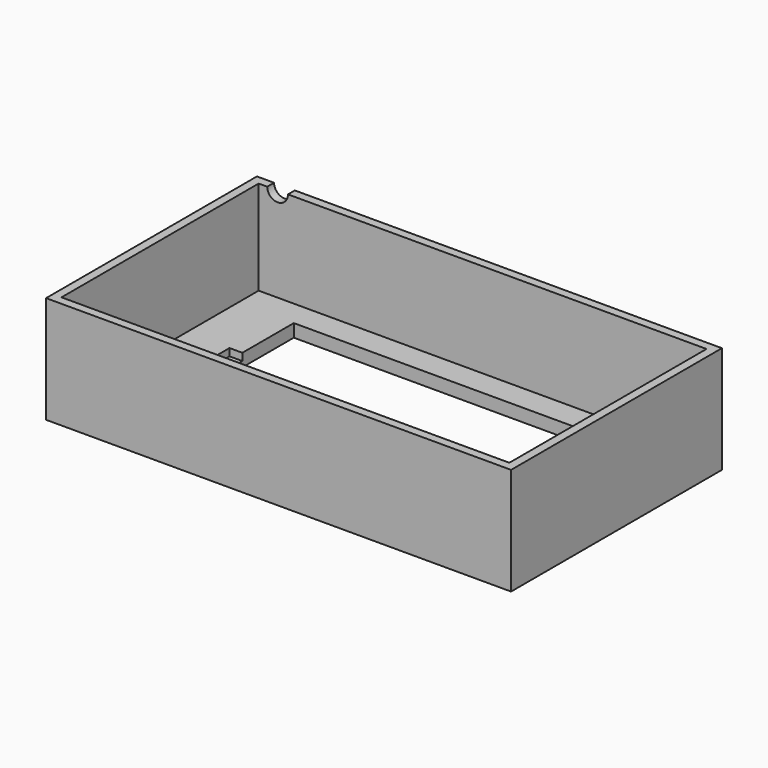
from build123d import *

# Parameters (mm, degrees)
F0_W     = 108.5
F0_H     = 61.5
F0_W_2   = 85.5
F0_H_2   = 45.5
F1_DEPTH = 3
F2_W     = 3
F2_H     = 15
F3_DEPTH = 1.7
F4_W     = 108.5
F4_H     = 61.5
F4_W_2   = 104.5
F4_H_2   = 57.5
F5_DEPTH = 22
F7_DEPTH = 2


with BuildPart() as f1:
    # F0 (on Top) → F1 (new body)
    with BuildSketch(Plane.XY):
        with Locations((39.25, 22.75)):
            Rectangle(F0_W, F0_H)
        with Locations((42.75, 22.75)):
            Rectangle(F0_W_2, F0_H_2, mode=Mode.SUBTRACT)
    extrude(amount=F1_DEPTH)

    # F2 (on face) → F3 (cut, through all)
    with BuildSketch(Plane.XY.offset(3)):
        with Locations((-1.5, 23)):
            Rectangle(F2_W, F2_H)
        with Locations((87, 23)):
            Rectangle(F2_W, F2_H)
    extrude(amount=-F3_DEPTH, mode=Mode.SUBTRACT)

    # F4 (on face) → F5 (join)
    with BuildSketch(Plane.XY.offset(3)):
        with Locations((39.25, 22.75)):
            Rectangle(F4_W, F4_H)
        with Locations((39.25, 22.75)):
            Rectangle(F4_W_2, F4_H_2, mode=Mode.SUBTRACT)
    extrude(amount=F5_DEPTH)

    # F6 (on face) → F7 (cut, through all)
    with BuildSketch(Plane(origin=(0, 53.5, 0), x_dir=(-1, 0, 0), z_dir=(0, 1, 0))):
        with BuildLine():
            Line((11, 25), (6.1561632305, 25))
            ThreePointArc((6.1561632305, 25), (8.5780816153, 22.5780816153), (11, 25))
        make_face()
    extrude(amount=-F7_DEPTH, mode=Mode.SUBTRACT)


solid = f1.part
